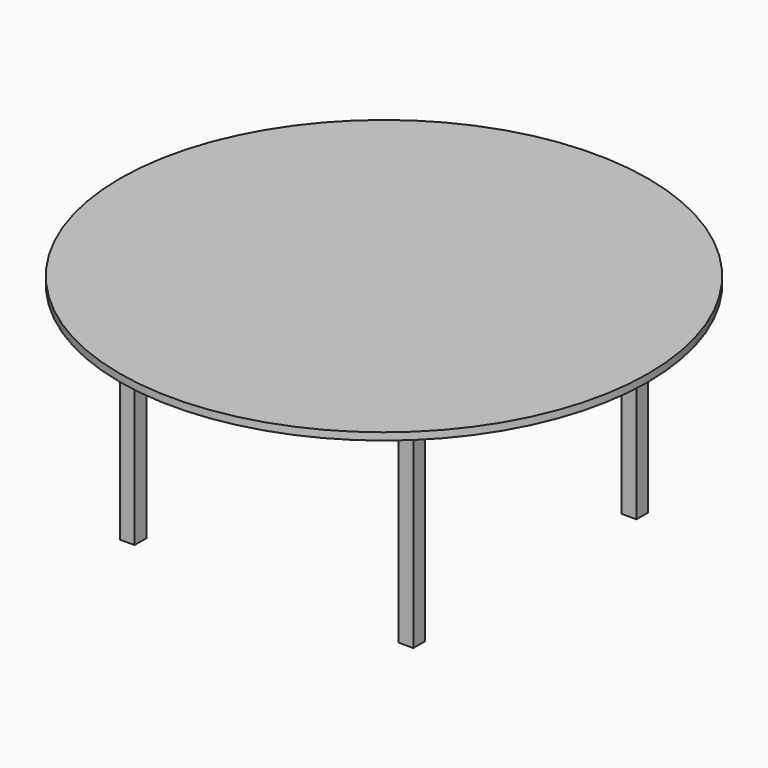
from build123d import *

# Parameters (mm, degrees)
F0_R     = 914.4
F1_DEPTH = 25.4
F2_W     = 50.8
F2_H     = 50.8
F3_DEPTH = 762


with BuildPart() as f1:
    # F0 (on Top) → F1 (new body)
    with BuildSketch(Plane.XY):
        Circle(F0_R)
    extrude(amount=-F1_DEPTH)

    # F2 (on Top) → F3 (join)
    with BuildSketch(Plane.XY):
        with Locations((482.6, -482.6)):
            Rectangle(F2_W, F2_H)
        with Locations((482.6, 482.6)):
            Rectangle(F2_W, F2_H)
        with Locations((-482.6, 482.6)):
            Rectangle(F2_W, F2_H)
        with Locations((-482.6, -482.6)):
            Rectangle(F2_W, F2_H)
    extrude(amount=-F3_DEPTH)


solid = f1.part
